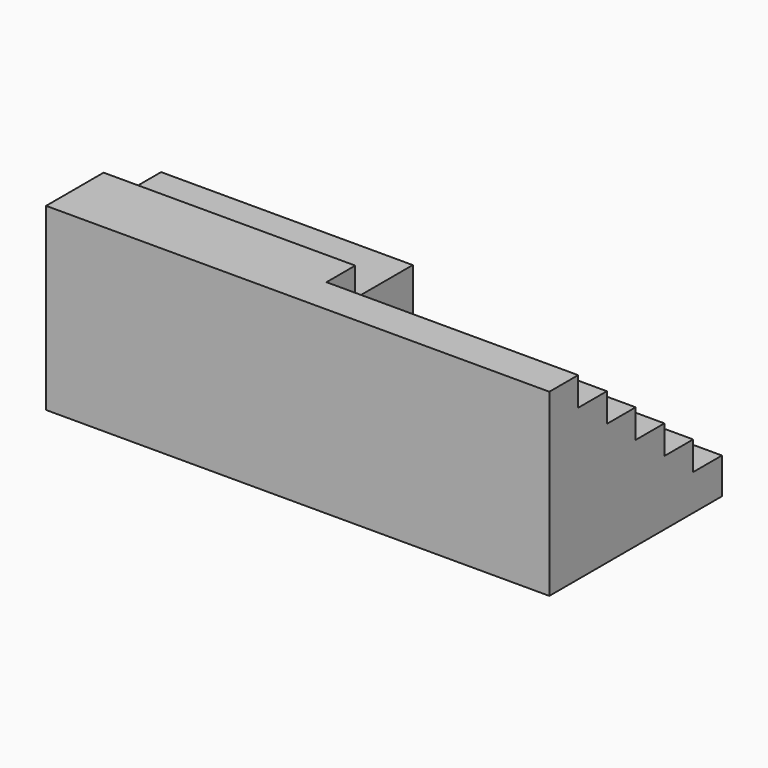
from build123d import *

# Parameters (mm, degrees)
F0_W      = 3500
F0_H      = 1500
F1_DEPTH  = 250
F2_W      = 3500
F2_H      = 1250
F3_DEPTH  = 200
F4_W      = 1750
F4_H      = 250
F5_DEPTH  = 800
F6_W      = 1750
F6_H      = 500
F6_H_2    = 250
F7_DEPTH  = 600
F8_W      = 1750
F8_H      = 250
F9_DEPTH  = 400
F10_W     = 1750
F10_H     = 250
F11_DEPTH = 200


with BuildPart() as f1:
    # F0 (on Top) → F1 (new body)
    with BuildSketch(Plane.XY):
        with Locations((1750, 750)):
            Rectangle(F0_W, F0_H)
    extrude(amount=F1_DEPTH)

    # F2 (on face) → F3 (join)
    with BuildSketch(Plane.XY.offset(250)):
        with Locations((1750, 625)):
            Rectangle(F2_W, F2_H)
    extrude(amount=F3_DEPTH)

    # F4 (on face) → F5 (join)
    with BuildSketch(Plane.XY.offset(450)):
        Polygon((0, 500), (0, 0), (1750, 0), (1750, 250), (1750, 500), align=None)
        with Locations((2625, 125)):
            Rectangle(F4_W, F4_H)
    extrude(amount=F5_DEPTH)

    # F6 (on face) → F7 (join)
    with BuildSketch(Plane.XY.offset(450)):
        with Locations((875, 750)):
            Rectangle(F6_W, F6_H)
        with Locations((2625, 375)):
            Rectangle(F6_W, F6_H_2)
    extrude(amount=F7_DEPTH)

    # F8 (on face) → F9 (join)
    with BuildSketch(Plane.XY.offset(450)):
        with Locations((2625, 625)):
            Rectangle(F8_W, F8_H)
    extrude(amount=F9_DEPTH)

    # F10 (on face) → F11 (join)
    with BuildSketch(Plane.XY.offset(450)):
        with Locations((2625, 875)):
            Rectangle(F10_W, F10_H)
    extrude(amount=F11_DEPTH)


solid = f1.part
